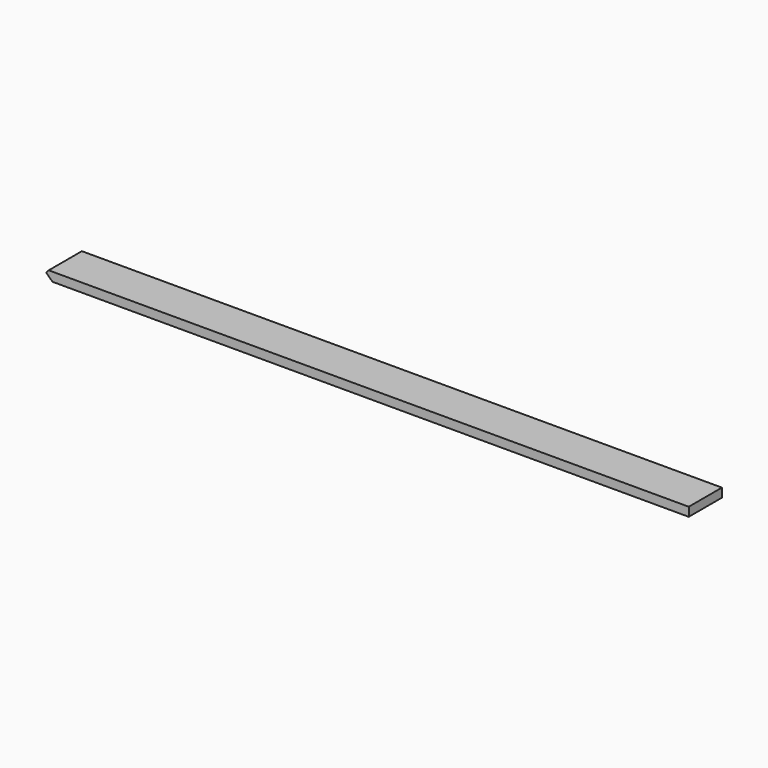
from build123d import *

# Parameters (mm, degrees)
F0_W     = 1364.3737
F0_H     = 19.05
F1_DEPTH = 88.9


with BuildPart() as f1:
    # F0 (on Front) → F1 (new body)
    with BuildSketch(Plane.XZ):
        Polygon((-1378.056176, 13.254899), (-1364.3737, 0), (-1364.3737, 19.05), (-1372.442172, 19.05), align=None)
        with Locations((-682.18685, 9.525)):
            Rectangle(F0_W, F0_H)
    extrude(amount=F1_DEPTH)


solid = f1.part
